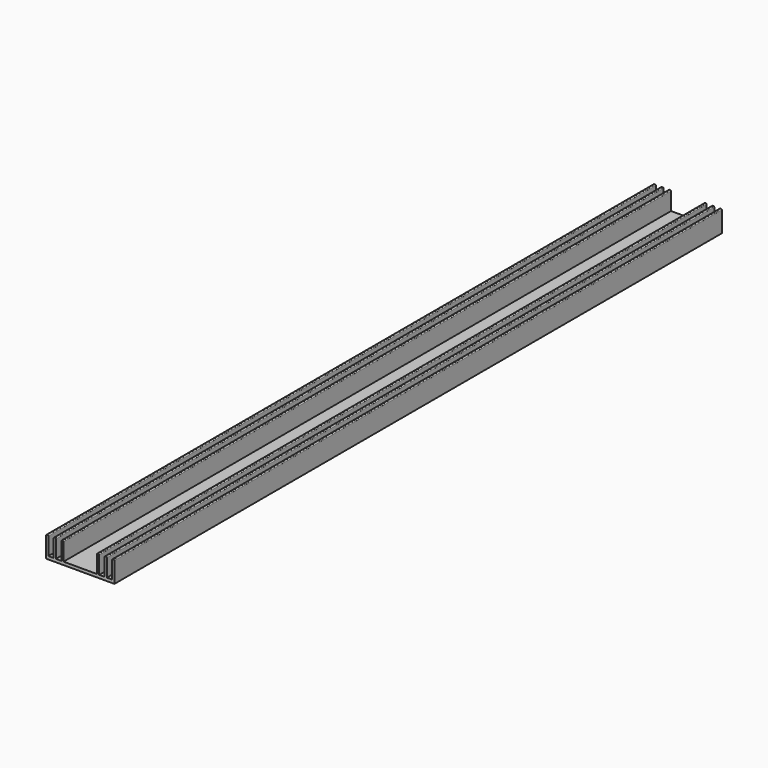
from build123d import *

# Parameters (mm, degrees)
F1_DEPTH = 1000


with BuildPart() as f1:
    # F0 (on Front) → F1 (new body)
    with BuildSketch(Plane.XZ):
        with BuildLine():
            Line((0, 4), (0, 0))
            Line((0, 0), (45, 0))
            Line((45, 0), (45, 4))
            Line((45, 4), (45, 27))
            ThreePointArc((45, 27), (44.707107, 27.707107), (44, 28))
            Line((44, 28), (43, 28))
            ThreePointArc((43, 28), (42.292893, 27.707107), (42, 27))
            Line((42, 27), (42, 4))
            Line((42, 4), (35, 4))
            Line((35, 4), (35, 27))
            ThreePointArc((35, 27), (34.707107, 27.707107), (34, 28))
            Line((34, 28), (33, 28))
            ThreePointArc((33, 28), (32.292893, 27.707107), (32, 27))
            Line((32, 27), (32, 4))
            Line((32, 4), (25, 4))
            Line((25, 4), (25, 27))
            ThreePointArc((25, 27), (24.707107, 27.707107), (24, 28))
            Line((24, 28), (23, 28))
            ThreePointArc((23, 28), (22.292893, 27.707107), (22, 27))
            Line((22, 27), (22, 4))
            Line((22, 4), (0, 4))
        make_face()
    extrude(amount=F1_DEPTH)

    # F2: F1 across plane


with BuildPart() as f1_1:
    add(f1.part)
    add(f1.part.mirror(Plane.YZ))


solid = f1_1.part
